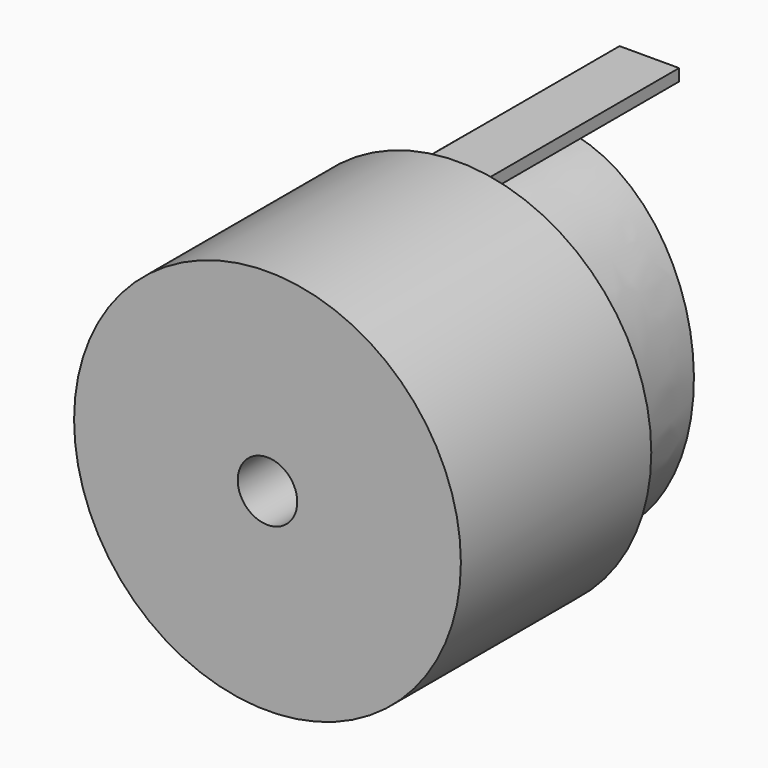
from build123d import *

# Parameters (mm, degrees)
F0_R      = 82.55
F1_DEPTH  = 101.6
F4_DEPTH  = 25.4
F5_DEPTH  = 50.8
F7_DEPTH  = 50.8
F8_W      = 25.4
F8_H      = 5.08
F9_DEPTH  = 101.6
F10_R     = 12.7
F11_DEPTH = 101.6


with BuildPart() as f1:
    # F0 (on Front) → F1 (new body)
    with BuildSketch(Plane.XZ):
        Circle(F0_R)
    extrude(amount=F1_DEPTH)

    # F3 (on Front) → F4 (cut)
    with BuildSketch(Plane.XZ):
        with BuildLine():
            add(Edge.make_bspline(
                [(0, 63.5), (-79.192427, 63.5), (-39.596214, -31.75), (0, -127), (39.596214, -31.75), (79.192427, 63.5), (0, 63.5)],
                knots=[0, 0, 0, 2.094395, 2.094395, 4.18879, 4.18879, 6.283185, 6.283185, 6.283185], degree=2, weights=[1, 0.5, 1, 0.5, 1, 0.5, 1]))
        make_face()
    extrude(amount=-F4_DEPTH, mode=Mode.SUBTRACT)

    # F2 (on Front) → F5 (join)
    with BuildSketch(Plane.XZ):
        with BuildLine():
            add(Edge.make_bspline(
                [(0, 75.87155), (-104.107058, 75.87155), (-52.053529, -37.935775), (0, -151.743099), (52.053529, -37.935775), (104.107058, 75.87155), (0, 75.87155)],
                knots=[0, 0, 0, 2.094395, 2.094395, 4.18879, 4.18879, 6.283185, 6.283185, 6.283185], degree=2, weights=[1, 0.5, 1, 0.5, 1, 0.5, 1]))
        make_face()
    extrude(amount=-F5_DEPTH)

    # F6 (on Front) → F7 (cut)
    with BuildSketch(Plane.XZ):
        with BuildLine():
            add(Edge.make_bspline(
                [(0, 63.850343), (-81.923546, 63.850343), (-40.961773, -31.925172), (0, -127.700686), (40.961773, -31.925172), (81.923546, 63.850343), (0, 63.850343)],
                knots=[0, 0, 0, 2.094395, 2.094395, 4.18879, 4.18879, 6.283185, 6.283185, 6.283185], degree=2, weights=[1, 0.5, 1, 0.5, 1, 0.5, 1]))
        make_face()
    extrude(amount=-F7_DEPTH, mode=Mode.SUBTRACT)

    # F8 (on Front) → F9 (join)
    with BuildSketch(Plane.XZ):
        with Locations((0.426983, 78.093884)):
            Rectangle(F8_W, F8_H)
    extrude(amount=-F9_DEPTH)

    # F10 (on Front) → F11 (cut)
    with BuildSketch(Plane.XZ):
        Circle(F10_R)
    extrude(amount=F11_DEPTH, mode=Mode.SUBTRACT)


solid = f1.part
